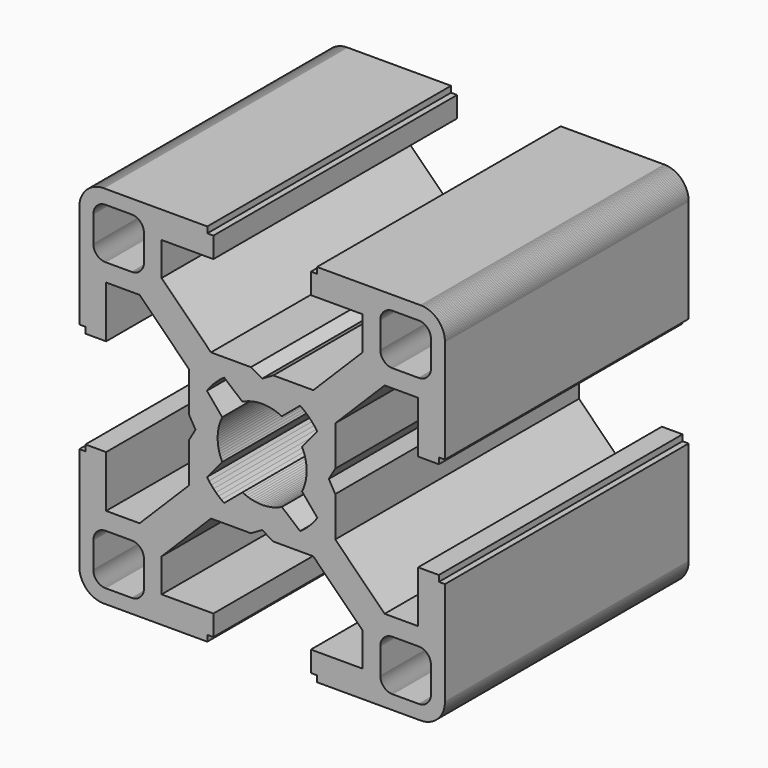
from build123d import *

# Parameters (mm, degrees)
F1_DEPTH = 25


with BuildPart() as f1:
    # F0 (on Front) → F1 (new body)
    with BuildSketch(Plane.XZ):
        Polygon((12.8, -4), (12.803123, -8.25), (10.053123, -8.25), (6, -4.196877), (6, -0.919615), (5.46906, 0), (6, 0.919615), (6, 4.196877), (10.053123, 8.25), (12.803123, 8.25), (12.8, 4), (14.5, 4), (14.5, 4.5), (15, 4.5), (15, 13), (14.997986, 13.089729), (14.991948, 13.179278), (14.981899, 13.268467), (14.967859, 13.357114), (14.949856, 13.445042), (14.927926, 13.532074), (14.902113, 13.618034), (14.87247, 13.702749), (14.839056, 13.78605), (14.801938, 13.867767), (14.761191, 13.947738), (14.716898, 14.025799), (14.669147, 14.101794), (14.618034, 14.17557), (14.563663, 14.24698), (14.506143, 14.315878), (14.44559, 14.382125), (14.382125, 14.44559), (14.315878, 14.506143), (14.24698, 14.563663), (14.17557, 14.618034), (14.101794, 14.669147), (14.025799, 14.716898), (13.947738, 14.761191), (13.867767, 14.801938), (13.78605, 14.839056), (13.702749, 14.87247), (13.618034, 14.902113), (13.532074, 14.927926), (13.445042, 14.949856), (13.357114, 14.967859), (13.268467, 14.981899), (13.179278, 14.991948), (13.089729, 14.997986), (13, 15), (4.5, 15), (4.5, 14.5), (4, 14.5), (4, 12.8), (8.25, 12.803123), (8.25, 10.053123), (4.196877, 6), (0.919615, 6), (0, 5.46906), (-0.919615, 6), (-4.196877, 6), (-8.25, 10.053123), (-8.25, 12.803123), (-4, 12.8), (-4, 14.5), (-4.5, 14.5), (-4.5, 15), (-13, 15), (-13.089729, 14.997986), (-13.179278, 14.991948), (-13.268467, 14.981899), (-13.357114, 14.967859), (-13.445042, 14.949856), (-13.532074, 14.927926), (-13.618034, 14.902113), (-13.702749, 14.87247), (-13.78605, 14.839056), (-13.867767, 14.801938), (-13.947738, 14.761191), (-14.025799, 14.716898), (-14.101794, 14.669147), (-14.17557, 14.618034), (-14.24698, 14.563663), (-14.315878, 14.506143), (-14.382125, 14.44559), (-14.44559, 14.382125), (-14.506143, 14.315878), (-14.563663, 14.24698), (-14.618034, 14.17557), (-14.669147, 14.101794), (-14.716898, 14.025799), (-14.761191, 13.947738), (-14.801938, 13.867767), (-14.839056, 13.78605), (-14.87247, 13.702749), (-14.902113, 13.618034), (-14.927926, 13.532074), (-14.949856, 13.445042), (-14.967859, 13.357114), (-14.981899, 13.268467), (-14.991948, 13.179278), (-14.997986, 13.089729), (-15, 13), (-15, 4.5), (-14.5, 4.5), (-14.5, 4), (-12.8, 4), (-12.803123, 8.25), (-10.053123, 8.25), (-6, 4.196877), (-6, 0.919615), (-5.46906, 0), (-6, -0.919615), (-6, -4.196877), (-10.053123, -8.25), (-12.803123, -8.25), (-12.8, -4), (-14.5, -4), (-14.5, -4.5), (-15, -4.5), (-15, -13), (-14.997986, -13.089729), (-14.991948, -13.179278), (-14.981899, -13.268467), (-14.967859, -13.357114), (-14.949856, -13.445042), (-14.927926, -13.532074), (-14.902113, -13.618034), (-14.87247, -13.702749), (-14.839056, -13.78605), (-14.801938, -13.867767), (-14.761191, -13.947738), (-14.716898, -14.025799), (-14.669147, -14.101794), (-14.618034, -14.17557), (-14.563663, -14.24698), (-14.506143, -14.315878), (-14.44559, -14.382125), (-14.382125, -14.44559), (-14.315878, -14.506143), (-14.24698, -14.563663), (-14.17557, -14.618034), (-14.101794, -14.669147), (-14.025799, -14.716898), (-13.947738, -14.761191), (-13.867767, -14.801938), (-13.78605, -14.839056), (-13.702749, -14.87247), (-13.618034, -14.902113), (-13.532074, -14.927926), (-13.445042, -14.949856), (-13.357114, -14.967859), (-13.268467, -14.981899), (-13.179278, -14.991948), (-13.089729, -14.997986), (-13, -15), (-4.5, -15), (-4.5, -14.5), (-4, -14.5), (-4, -12.8), (-8.25, -12.803123), (-8.25, -10.053123), (-4.196877, -6), (-0.919615, -6), (0, -5.46906), (0.919615, -6), (4.196877, -6), (8.25, -10.053123), (8.25, -12.803123), (4, -12.8), (4, -14.5), (4.5, -14.5), (4.5, -15), (13, -15), (13.089729, -14.997986), (13.179278, -14.991948), (13.268467, -14.981899), (13.357114, -14.967859), (13.445042, -14.949856), (13.532074, -14.927926), (13.618034, -14.902113), (13.702749, -14.87247), (13.78605, -14.839056), (13.867767, -14.801938), (13.947738, -14.761191), (14.025799, -14.716898), (14.101794, -14.669147), (14.17557, -14.618034), (14.24698, -14.563663), (14.315878, -14.506143), (14.382125, -14.44559), (14.44559, -14.382125), (14.506143, -14.315878), (14.563663, -14.24698), (14.618034, -14.17557), (14.669147, -14.101794), (14.716898, -14.025799), (14.761191, -13.947738), (14.801938, -13.867767), (14.839056, -13.78605), (14.87247, -13.702749), (14.902113, -13.618034), (14.927926, -13.532074), (14.949856, -13.445042), (14.967859, -13.357114), (14.981899, -13.268467), (14.991948, -13.179278), (14.997986, -13.089729), (15, -13), (15, -4.5), (14.5, -4.5), (14.5, -4), align=None)
        Polygon((-13.845974, -12.939639), (-13.848993, -12.894865), (-13.85, -12.85), (-13.85, -10.7), (-13.848993, -10.655135), (-13.845974, -10.610361), (-13.84095, -10.565766), (-13.83393, -10.521443), (-13.824928, -10.477479), (-13.813963, -10.433963), (-13.801057, -10.390983), (-13.786235, -10.348625), (-13.769527, -10.306975), (-13.750969, -10.266116), (-13.730596, -10.226131), (-13.708448, -10.1871), (-13.684573, -10.149103), (-13.659017, -10.112215), (-13.631831, -10.07651), (-13.603071, -10.042061), (-13.572795, -10.008937), (-13.541062, -9.977205), (-13.507938, -9.946929), (-13.47349, -9.918168), (-13.437785, -9.890983), (-13.400897, -9.865427), (-13.362899, -9.841551), (-13.323869, -9.819405), (-13.283884, -9.799031), (-13.243025, -9.780472), (-13.201375, -9.763765), (-13.159017, -9.748943), (-13.116036, -9.736037), (-13.072521, -9.725072), (-13.028557, -9.71607), (-12.984233, -9.70905), (-12.939639, -9.704025), (-12.894865, -9.701007), (-12.85, -9.7), (-10.7, -9.7), (-10.655135, -9.701007), (-10.610361, -9.704025), (-10.565766, -9.70905), (-10.521443, -9.71607), (-10.477479, -9.725072), (-10.433963, -9.736037), (-10.390983, -9.748943), (-10.348625, -9.763765), (-10.306975, -9.780472), (-10.266116, -9.799031), (-10.226131, -9.819405), (-10.1871, -9.841551), (-10.149103, -9.865427), (-10.112215, -9.890983), (-10.07651, -9.918168), (-10.042061, -9.946929), (-10.008937, -9.977205), (-9.977205, -10.008937), (-9.946929, -10.042061), (-9.918168, -10.07651), (-9.890983, -10.112215), (-9.865427, -10.149103), (-9.841551, -10.1871), (-9.819405, -10.226131), (-9.799031, -10.266116), (-9.780472, -10.306975), (-9.763765, -10.348625), (-9.748943, -10.390983), (-9.736037, -10.433963), (-9.725072, -10.477479), (-9.71607, -10.521443), (-9.70905, -10.565766), (-9.704025, -10.610361), (-9.701007, -10.655135), (-9.7, -10.7), (-9.7, -12.85), (-9.701007, -12.894865), (-9.704025, -12.939639), (-9.70905, -12.984233), (-9.71607, -13.028557), (-9.725072, -13.072521), (-9.736037, -13.116036), (-9.748943, -13.159017), (-9.763765, -13.201375), (-9.780472, -13.243025), (-9.799031, -13.283884), (-9.819405, -13.323869), (-9.841551, -13.362899), (-9.865427, -13.400897), (-9.890983, -13.437785), (-9.918168, -13.47349), (-9.946929, -13.507938), (-9.977205, -13.541062), (-10.008937, -13.572795), (-10.042061, -13.603071), (-10.07651, -13.631831), (-10.112215, -13.659017), (-10.149103, -13.684573), (-10.1871, -13.708448), (-10.226131, -13.730596), (-10.266116, -13.750969), (-10.306975, -13.769527), (-10.348625, -13.786235), (-10.390983, -13.801057), (-10.433963, -13.813963), (-10.477479, -13.824928), (-10.521443, -13.83393), (-10.565766, -13.84095), (-10.610361, -13.845974), (-10.655135, -13.848993), (-10.7, -13.85), (-12.85, -13.85), (-12.894865, -13.848993), (-12.939639, -13.845974), (-12.984233, -13.84095), (-13.028557, -13.83393), (-13.072521, -13.824928), (-13.116036, -13.813963), (-13.159017, -13.801057), (-13.201375, -13.786235), (-13.243025, -13.769527), (-13.283884, -13.750969), (-13.323869, -13.730596), (-13.362899, -13.708448), (-13.400897, -13.684573), (-13.437785, -13.659017), (-13.47349, -13.631831), (-13.507938, -13.603071), (-13.541062, -13.572795), (-13.572795, -13.541062), (-13.603071, -13.507938), (-13.631831, -13.47349), (-13.659017, -13.437785), (-13.684573, -13.400897), (-13.708448, -13.362899), (-13.730596, -13.323869), (-13.750969, -13.283884), (-13.769527, -13.243025), (-13.786235, -13.201375), (-13.801057, -13.159017), (-13.813963, -13.116036), (-13.824928, -13.072521), (-13.83393, -13.028557), (-13.84095, -12.984233), align=None, mode=Mode.SUBTRACT)
        Polygon((9.704025, -12.939639), (9.701007, -12.894865), (9.7, -12.85), (9.7, -10.7), (9.701007, -10.655135), (9.704025, -10.610361), (9.70905, -10.565766), (9.71607, -10.521443), (9.725072, -10.477479), (9.736037, -10.433963), (9.748943, -10.390983), (9.763765, -10.348625), (9.780472, -10.306975), (9.799031, -10.266116), (9.819405, -10.226131), (9.841551, -10.1871), (9.865427, -10.149103), (9.890983, -10.112215), (9.918168, -10.07651), (9.946929, -10.042061), (9.977205, -10.008937), (10.008937, -9.977205), (10.042061, -9.946929), (10.07651, -9.918168), (10.112215, -9.890983), (10.149103, -9.865427), (10.1871, -9.841551), (10.226131, -9.819405), (10.266116, -9.799031), (10.306975, -9.780472), (10.348625, -9.763765), (10.390983, -9.748943), (10.433963, -9.736037), (10.477479, -9.725072), (10.521443, -9.71607), (10.565766, -9.70905), (10.610361, -9.704025), (10.655135, -9.701007), (10.7, -9.7), (12.85, -9.7), (12.894865, -9.701007), (12.939639, -9.704025), (12.984233, -9.70905), (13.028557, -9.71607), (13.072521, -9.725072), (13.116036, -9.736037), (13.159017, -9.748943), (13.201375, -9.763765), (13.243025, -9.780472), (13.283884, -9.799031), (13.323869, -9.819405), (13.362899, -9.841551), (13.400897, -9.865427), (13.437785, -9.890983), (13.47349, -9.918168), (13.507938, -9.946929), (13.541062, -9.977205), (13.572795, -10.008937), (13.603071, -10.042061), (13.631831, -10.07651), (13.659017, -10.112215), (13.684573, -10.149103), (13.708448, -10.1871), (13.730596, -10.226131), (13.750969, -10.266116), (13.769527, -10.306975), (13.786235, -10.348625), (13.801057, -10.390983), (13.813963, -10.433963), (13.824928, -10.477479), (13.83393, -10.521443), (13.84095, -10.565766), (13.845974, -10.610361), (13.848993, -10.655135), (13.85, -10.7), (13.85, -12.85), (13.848993, -12.894865), (13.845974, -12.939639), (13.84095, -12.984233), (13.83393, -13.028557), (13.824928, -13.072521), (13.813963, -13.116036), (13.801057, -13.159017), (13.786235, -13.201375), (13.769527, -13.243025), (13.750969, -13.283884), (13.730596, -13.323869), (13.708448, -13.362899), (13.684573, -13.400897), (13.659017, -13.437785), (13.631831, -13.47349), (13.603071, -13.507938), (13.572795, -13.541062), (13.541062, -13.572795), (13.507938, -13.603071), (13.47349, -13.631831), (13.437785, -13.659017), (13.400897, -13.684573), (13.362899, -13.708448), (13.323869, -13.730596), (13.283884, -13.750969), (13.243025, -13.769527), (13.201375, -13.786235), (13.159017, -13.801057), (13.116036, -13.813963), (13.072521, -13.824928), (13.028557, -13.83393), (12.984233, -13.84095), (12.939639, -13.845974), (12.894865, -13.848993), (12.85, -13.85), (10.7, -13.85), (10.655135, -13.848993), (10.610361, -13.845974), (10.565766, -13.84095), (10.521443, -13.83393), (10.477479, -13.824928), (10.433963, -13.813963), (10.390983, -13.801057), (10.348625, -13.786235), (10.306975, -13.769527), (10.266116, -13.750969), (10.226131, -13.730596), (10.1871, -13.708448), (10.149103, -13.684573), (10.112215, -13.659017), (10.07651, -13.631831), (10.042061, -13.603071), (10.008937, -13.572795), (9.977205, -13.541062), (9.946929, -13.507938), (9.918168, -13.47349), (9.890983, -13.437785), (9.865427, -13.400897), (9.841551, -13.362899), (9.819405, -13.323869), (9.799031, -13.283884), (9.780472, -13.243025), (9.763765, -13.201375), (9.748943, -13.159017), (9.736037, -13.116036), (9.725072, -13.072521), (9.71607, -13.028557), (9.70905, -12.984233), align=None, mode=Mode.SUBTRACT)
        Polygon((-13.845974, 10.610361), (-13.848993, 10.655135), (-13.85, 10.7), (-13.85, 12.85), (-13.848993, 12.894865), (-13.845974, 12.939639), (-13.84095, 12.984233), (-13.83393, 13.028557), (-13.824928, 13.072521), (-13.813963, 13.116036), (-13.801057, 13.159017), (-13.786235, 13.201375), (-13.769527, 13.243025), (-13.750969, 13.283884), (-13.730596, 13.323869), (-13.708448, 13.362899), (-13.684573, 13.400897), (-13.659017, 13.437785), (-13.631831, 13.47349), (-13.603071, 13.507938), (-13.572795, 13.541062), (-13.541062, 13.572795), (-13.507938, 13.603071), (-13.47349, 13.631831), (-13.437785, 13.659017), (-13.400897, 13.684573), (-13.362899, 13.708448), (-13.323869, 13.730596), (-13.283884, 13.750969), (-13.243025, 13.769527), (-13.201375, 13.786235), (-13.159017, 13.801057), (-13.116036, 13.813963), (-13.072521, 13.824928), (-13.028557, 13.83393), (-12.984233, 13.84095), (-12.939639, 13.845974), (-12.894865, 13.848993), (-12.85, 13.85), (-10.7, 13.85), (-10.655135, 13.848993), (-10.610361, 13.845974), (-10.565766, 13.84095), (-10.521443, 13.83393), (-10.477479, 13.824928), (-10.433963, 13.813963), (-10.390983, 13.801057), (-10.348625, 13.786235), (-10.306975, 13.769527), (-10.266116, 13.750969), (-10.226131, 13.730596), (-10.1871, 13.708448), (-10.149103, 13.684573), (-10.112215, 13.659017), (-10.07651, 13.631831), (-10.042061, 13.603071), (-10.008937, 13.572795), (-9.977205, 13.541062), (-9.946929, 13.507938), (-9.918168, 13.47349), (-9.890983, 13.437785), (-9.865427, 13.400897), (-9.841551, 13.362899), (-9.819405, 13.323869), (-9.799031, 13.283884), (-9.780472, 13.243025), (-9.763765, 13.201375), (-9.748943, 13.159017), (-9.736037, 13.116036), (-9.725072, 13.072521), (-9.71607, 13.028557), (-9.70905, 12.984233), (-9.704025, 12.939639), (-9.701007, 12.894865), (-9.7, 12.85), (-9.7, 10.7), (-9.701007, 10.655135), (-9.704025, 10.610361), (-9.70905, 10.565766), (-9.71607, 10.521443), (-9.725072, 10.477479), (-9.736037, 10.433963), (-9.748943, 10.390983), (-9.763765, 10.348625), (-9.780472, 10.306975), (-9.799031, 10.266116), (-9.819405, 10.226131), (-9.841551, 10.1871), (-9.865427, 10.149103), (-9.890983, 10.112215), (-9.918168, 10.07651), (-9.946929, 10.042061), (-9.977205, 10.008937), (-10.008937, 9.977205), (-10.042061, 9.946929), (-10.07651, 9.918168), (-10.112215, 9.890983), (-10.149103, 9.865427), (-10.1871, 9.841551), (-10.226131, 9.819405), (-10.266116, 9.799031), (-10.306975, 9.780472), (-10.348625, 9.763765), (-10.390983, 9.748943), (-10.433963, 9.736037), (-10.477479, 9.725072), (-10.521443, 9.71607), (-10.565766, 9.70905), (-10.610361, 9.704025), (-10.655135, 9.701007), (-10.7, 9.7), (-12.85, 9.7), (-12.894865, 9.701007), (-12.939639, 9.704025), (-12.984233, 9.70905), (-13.028557, 9.71607), (-13.072521, 9.725072), (-13.116036, 9.736037), (-13.159017, 9.748943), (-13.201375, 9.763765), (-13.243025, 9.780472), (-13.283884, 9.799031), (-13.323869, 9.819405), (-13.362899, 9.841551), (-13.400897, 9.865427), (-13.437785, 9.890983), (-13.47349, 9.918168), (-13.507938, 9.946929), (-13.541062, 9.977205), (-13.572795, 10.008937), (-13.603071, 10.042061), (-13.631831, 10.07651), (-13.659017, 10.112215), (-13.684573, 10.149103), (-13.708448, 10.1871), (-13.730596, 10.226131), (-13.750969, 10.266116), (-13.769527, 10.306975), (-13.786235, 10.348625), (-13.801057, 10.390983), (-13.813963, 10.433963), (-13.824928, 10.477479), (-13.83393, 10.521443), (-13.84095, 10.565766), align=None, mode=Mode.SUBTRACT)
        Polygon((-3.623419, -0.439702), (-3.640423, -0.264232), (-3.648936, -0.088146), (-3.648936, 0.088146), (-3.640423, 0.264232), (-3.623419, 0.439702), (-3.597961, 0.614146), (-3.564111, 0.787157), (-3.521945, 0.958332), (-3.471564, 1.127272), (-3.413085, 1.293582), (-3.346643, 1.456874), (-3.272394, 1.616767), (-4.531372, 3.117158), (-4.362428, 3.349511), (-4.181583, 3.572725), (-3.98933, 3.786192), (-3.786192, 3.98933), (-3.572725, 4.181583), (-3.349511, 4.362428), (-3.117158, 4.531372), (-1.616767, 3.272394), (-1.456874, 3.346643), (-1.293582, 3.413085), (-1.127272, 3.471564), (-0.958332, 3.521945), (-0.787157, 3.564111), (-0.614146, 3.597961), (-0.439702, 3.623419), (-0.264232, 3.640423), (-0.088146, 3.648936), (0.088146, 3.648936), (0.264232, 3.640423), (0.439702, 3.623419), (0.614146, 3.597961), (0.787157, 3.564111), (0.958332, 3.521945), (1.127272, 3.471564), (1.293582, 3.413085), (1.456874, 3.346643), (1.616767, 3.272394), (3.117158, 4.531372), (3.349511, 4.362428), (3.572725, 4.181583), (3.786192, 3.98933), (3.98933, 3.786192), (4.181583, 3.572725), (4.362428, 3.349511), (4.531372, 3.117158), (3.272394, 1.616767), (3.346643, 1.456874), (3.413085, 1.293582), (3.471564, 1.127272), (3.521945, 0.958332), (3.564111, 0.787157), (3.597961, 0.614146), (3.623419, 0.439702), (3.640423, 0.264232), (3.648936, 0.088146), (3.648936, -0.088146), (3.640423, -0.264232), (3.623419, -0.439702), (3.597961, -0.614146), (3.564111, -0.787157), (3.521945, -0.958332), (3.471564, -1.127272), (3.413085, -1.293582), (3.346643, -1.456874), (3.272394, -1.616767), (4.531372, -3.117158), (4.362428, -3.349511), (4.181583, -3.572725), (3.98933, -3.786192), (3.786192, -3.98933), (3.572725, -4.181583), (3.349511, -4.362428), (3.117158, -4.531372), (1.616767, -3.272394), (1.456874, -3.346643), (1.293582, -3.413085), (1.127272, -3.471564), (0.958332, -3.521945), (0.787157, -3.564111), (0.614146, -3.597961), (0.439702, -3.623419), (0.264232, -3.640423), (0.088146, -3.648936), (-0.088146, -3.648936), (-0.264232, -3.640423), (-0.439702, -3.623419), (-0.614146, -3.597961), (-0.787157, -3.564111), (-0.958332, -3.521945), (-1.127272, -3.471564), (-1.293582, -3.413085), (-1.456874, -3.346643), (-1.616767, -3.272394), (-3.117158, -4.531372), (-3.349511, -4.362428), (-3.572725, -4.181583), (-3.786192, -3.98933), (-3.98933, -3.786192), (-4.181583, -3.572725), (-4.362428, -3.349511), (-4.531372, -3.117158), (-3.272394, -1.616767), (-3.346643, -1.456874), (-3.413085, -1.293582), (-3.471564, -1.127272), (-3.521945, -0.958332), (-3.564111, -0.787157), (-3.597961, -0.614146), align=None, mode=Mode.SUBTRACT)
        Polygon((9.704025, 10.610361), (9.701007, 10.655135), (9.7, 10.7), (9.7, 12.85), (9.701007, 12.894865), (9.704025, 12.939639), (9.70905, 12.984233), (9.71607, 13.028557), (9.725072, 13.072521), (9.736037, 13.116036), (9.748943, 13.159017), (9.763765, 13.201375), (9.780472, 13.243025), (9.799031, 13.283884), (9.819405, 13.323869), (9.841551, 13.362899), (9.865427, 13.400897), (9.890983, 13.437785), (9.918168, 13.47349), (9.946929, 13.507938), (9.977205, 13.541062), (10.008937, 13.572795), (10.042061, 13.603071), (10.07651, 13.631831), (10.112215, 13.659017), (10.149103, 13.684573), (10.1871, 13.708448), (10.226131, 13.730596), (10.266116, 13.750969), (10.306975, 13.769527), (10.348625, 13.786235), (10.390983, 13.801057), (10.433963, 13.813963), (10.477479, 13.824928), (10.521443, 13.83393), (10.565766, 13.84095), (10.610361, 13.845974), (10.655135, 13.848993), (10.7, 13.85), (12.85, 13.85), (12.894865, 13.848993), (12.939639, 13.845974), (12.984233, 13.84095), (13.028557, 13.83393), (13.072521, 13.824928), (13.116036, 13.813963), (13.159017, 13.801057), (13.201375, 13.786235), (13.243025, 13.769527), (13.283884, 13.750969), (13.323869, 13.730596), (13.362899, 13.708448), (13.400897, 13.684573), (13.437785, 13.659017), (13.47349, 13.631831), (13.507938, 13.603071), (13.541062, 13.572795), (13.572795, 13.541062), (13.603071, 13.507938), (13.631831, 13.47349), (13.659017, 13.437785), (13.684573, 13.400897), (13.708448, 13.362899), (13.730596, 13.323869), (13.750969, 13.283884), (13.769527, 13.243025), (13.786235, 13.201375), (13.801057, 13.159017), (13.813963, 13.116036), (13.824928, 13.072521), (13.83393, 13.028557), (13.84095, 12.984233), (13.845974, 12.939639), (13.848993, 12.894865), (13.85, 12.85), (13.85, 10.7), (13.848993, 10.655135), (13.845974, 10.610361), (13.84095, 10.565766), (13.83393, 10.521443), (13.824928, 10.477479), (13.813963, 10.433963), (13.801057, 10.390983), (13.786235, 10.348625), (13.769527, 10.306975), (13.750969, 10.266116), (13.730596, 10.226131), (13.708448, 10.1871), (13.684573, 10.149103), (13.659017, 10.112215), (13.631831, 10.07651), (13.603071, 10.042061), (13.572795, 10.008937), (13.541062, 9.977205), (13.507938, 9.946929), (13.47349, 9.918168), (13.437785, 9.890983), (13.400897, 9.865427), (13.362899, 9.841551), (13.323869, 9.819405), (13.283884, 9.799031), (13.243025, 9.780472), (13.201375, 9.763765), (13.159017, 9.748943), (13.116036, 9.736037), (13.072521, 9.725072), (13.028557, 9.71607), (12.984233, 9.70905), (12.939639, 9.704025), (12.894865, 9.701007), (12.85, 9.7), (10.7, 9.7), (10.655135, 9.701007), (10.610361, 9.704025), (10.565766, 9.70905), (10.521443, 9.71607), (10.477479, 9.725072), (10.433963, 9.736037), (10.390983, 9.748943), (10.348625, 9.763765), (10.306975, 9.780472), (10.266116, 9.799031), (10.226131, 9.819405), (10.1871, 9.841551), (10.149103, 9.865427), (10.112215, 9.890983), (10.07651, 9.918168), (10.042061, 9.946929), (10.008937, 9.977205), (9.977205, 10.008937), (9.946929, 10.042061), (9.918168, 10.07651), (9.890983, 10.112215), (9.865427, 10.149103), (9.841551, 10.1871), (9.819405, 10.226131), (9.799031, 10.266116), (9.780472, 10.306975), (9.763765, 10.348625), (9.748943, 10.390983), (9.736037, 10.433963), (9.725072, 10.477479), (9.71607, 10.521443), (9.70905, 10.565766), align=None, mode=Mode.SUBTRACT)
    extrude(amount=F1_DEPTH)


solid = f1.part
